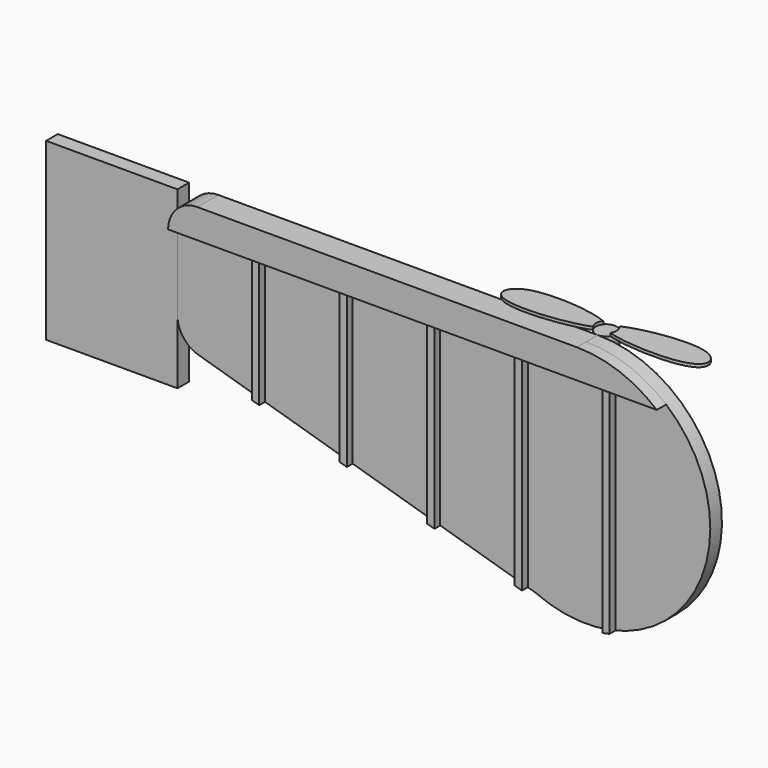
from build123d import *

# Parameters (mm, degrees)
F1_DEPTH  = 12.7
F3_DEPTH  = 10.16
F6_W      = 114.3
F6_H      = 152.4
F7_DEPTH  = 12.7
F9_DEPTH  = 19.558
F11_DEPTH = 2.54
F12_DEPTH = 6.35


with BuildPart() as f1:
    # F0 (on Front) → F1 (new body)
    with BuildSketch(Plane.XZ):
        with BuildLine():
            Line((0, 88.9), (0, 18.9734820172))
            ThreePointArc((0, 18.9734820172), (5.0506124764, 3.7727442912), (18.1938919224, -5.3828725206))
            Line((18.1938919224, -5.3828725206), (311.3668292683, -92.1214634146))
            ThreePointArc((311.3668292683, -92.1214634146), (461.1537705997, -16.2686651285), (355.6, 114.3))
            Line((355.6, 114.3), (25.4, 114.3))
            ThreePointArc((25.4, 114.3), (7.4394877579, 106.8605122421), (0, 88.9))
        make_face()
    extrude(amount=F1_DEPTH)

    # F2 (on face) → F3 (join)
    with BuildSketch(Plane.XZ.offset(12.7)):
        with BuildLine():
            ThreePointArc((25.4, 114.3), (7.4394877579, 106.8605122421), (0, 88.9))
            Line((0, 88.9), (425.1607648032, 88.9))
            ThreePointArc((425.1607648032, 88.9), (392.6265445323, 107.751368334), (355.6, 114.3))
            Line((355.6, 114.3), (25.4, 114.3))
        make_face()
    extrude(amount=F3_DEPTH)


with BuildPart() as f5_1:
    # F5: copy of F1
    add(f1.part)


with BuildPart() as f7:
    # F6 (on Front) → F7 (new body)
    with BuildSketch(Plane.XZ):
        with Locations((-57.15, 39.256558827)):
            Rectangle(F6_W, F6_H)
    extrude(amount=F7_DEPTH)


with BuildPart() as f9:
    # F8 (on face) → F9 (new body)
    with BuildSketch(Plane.XY.offset(114.3)):
        with BuildLine():
            ThreePointArc((355.6, 0), (361.9986077821, 2.6286273124), (364.6520126703, 9.017))
            ThreePointArc((364.6520126703, 9.017), (349.2712821314, 15.4053726876), (355.6, 0))
        make_face()
    extrude(amount=-F9_DEPTH)


with BuildPart() as f11:
    # F10 (on face) → F11 (new body)
    with BuildSketch(Plane.XY.offset(114.3)):
        with BuildLine():
            ThreePointArc((348.2251800489, 3.8786253386), (346.622671366, 9.3109980862), (348.5758255009, 14.6273781208))
            add(Edge.make_bspline(
                [(348.5758255009, 14.6273781208), (333.7506038793, 21.1517493594), (270.9520035317, 27.6914675027), (260.6769274078, -11.4962183265), (331.5914142772, -3.4229552317), (348.2251800489, 3.8786253386)],
                knots=[0.0838313697, 0.0838313697, 0.0838313697, 0.0838313697, 0.3950885555, 0.5920415042, 0.9255762047, 0.9255762047, 0.9255762047, 0.9255762047], degree=3))
        make_face()
    extrude(amount=F11_DEPTH)


with BuildPart() as f11b:
    # F10 (on face) → F11, piece 2 (new body)
    with BuildSketch(Plane.XY.offset(114.3)):
        with BuildLine():
            add(Edge.make_bspline(
                [(361.9597990349, 15.4437978839), (376.8530125321, 22.7948947819), (437.8377662884, 33.1105007202), (450.5791405277, -4.7895022289), (380.8634237812, -1.8662068669), (363.1599937949, 4.0489873054)],
                knots=[0.0891984667, 0.0891984667, 0.0891984667, 0.0891984667, 0.3950885555, 0.5920415042, 0.9199736264, 0.9199736264, 0.9199736264, 0.9199736264], degree=3))
            ThreePointArc((361.9597990349, 15.4437978839), (363.9517697009, 12.5009541221), (364.6520126703, 9.017))
            ThreePointArc((364.6520126703, 9.017), (364.2709563356, 6.4233890781), (363.1599937949, 4.0489873054))
        make_face()
    extrude(amount=F11_DEPTH)


with BuildPart() as f12:
    # F4 (on face) → F12 (new body)
    with BuildSketch(Plane.XZ.offset(12.7)):
        Polygon((76.2, 88.9), (69.85, 88.9), (69.85, -20.6659271787), (76.2, -22.5446478313), align=None)
    extrude(amount=F12_DEPTH)


with BuildPart() as f12b:
    # F4 (on face) → F12, piece 2 (new body)
    with BuildSketch(Plane.XZ.offset(12.7)):
        Polygon((152.4, 88.9), (146.05, 88.9), (146.05, -43.2105750099), (152.4, -45.0892956626), align=None)
    extrude(amount=F12_DEPTH)


with BuildPart() as f12c:
    # F4 (on face) → F12, piece 3 (new body)
    with BuildSketch(Plane.XZ.offset(12.7)):
        Polygon((228.6, 88.9), (222.25, 88.9), (222.25, -65.7552228412), (228.6, -67.6339434938), align=None)
    extrude(amount=F12_DEPTH)


with BuildPart() as f12d:
    # F4 (on face) → F12, piece 4 (new body)
    with BuildSketch(Plane.XZ.offset(12.7)):
        Polygon((304.8, 88.9), (298.45, 88.9), (298.45, -88.2998706725), (304.8, -90.1785913251), align=None)
    extrude(amount=F12_DEPTH)


with BuildPart() as f12e:
    # F4 (on face) → F12, piece 5 (new body)
    with BuildSketch(Plane.XZ.offset(12.7)):
        Polygon((381, 88.9), (374.65, 88.9), (374.65, -99.9058233698), (381, -98.5692189258), align=None)
    extrude(amount=F12_DEPTH)


solid = Compound([f1.part, f5_1.part, f7.part, f9.part, f11.part, f11b.part, f12.part, f12b.part, f12c.part, f12d.part, f12e.part])
